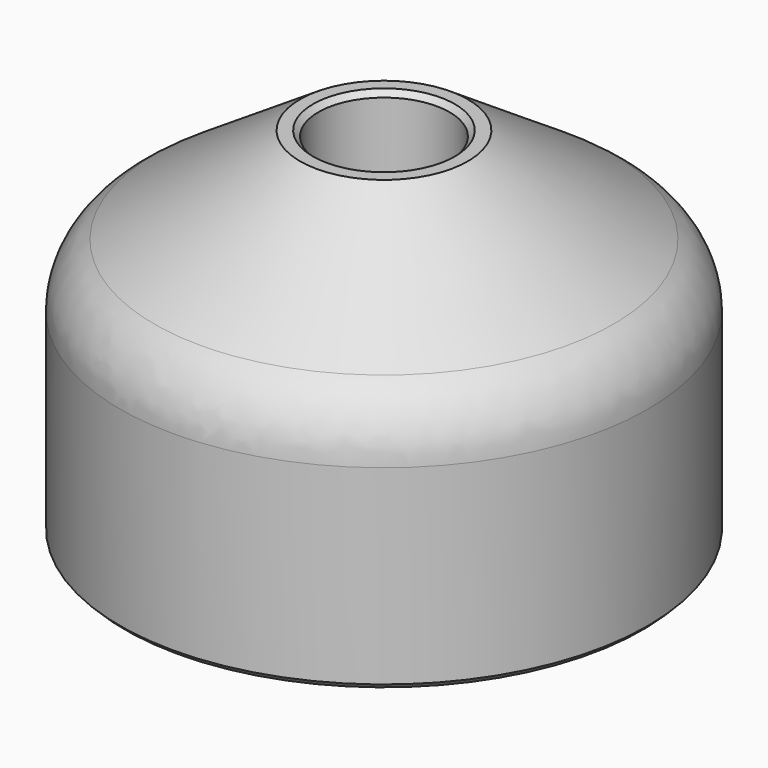
from build123d import *

# Parameters (mm, degrees)
F2_SIZE = 0.175
F3_R    = 2.5


with BuildPart() as f1:
    # F0 (on Right) → F1 (revolve)
    with BuildSketch(Plane.YZ):
        Polygon((-8.65, 7.773333), (-8.65, 0), (-2.15, 0), (-2.15, 11.66), (-2.75, 11.66), align=None)
    revolve(axis=Axis((0, 0, 8.606664), (0, 0, -1)))

    # F2
    f2_edges = [f1.edges().sort_by_distance(p)[0] for p in [
        (0, 2.15, 11.66),
        (0, 8.65, 0),
        (0, 2.15, 0),
    ]]
    chamfer(f2_edges, length=F2_SIZE)

    # F3
    f3_edges = [f1.edges().sort_by_distance(p)[0] for p in [
        (0, 8.65, 7.773333),
    ]]
    fillet(f3_edges, radius=F3_R)


solid = f1.part
